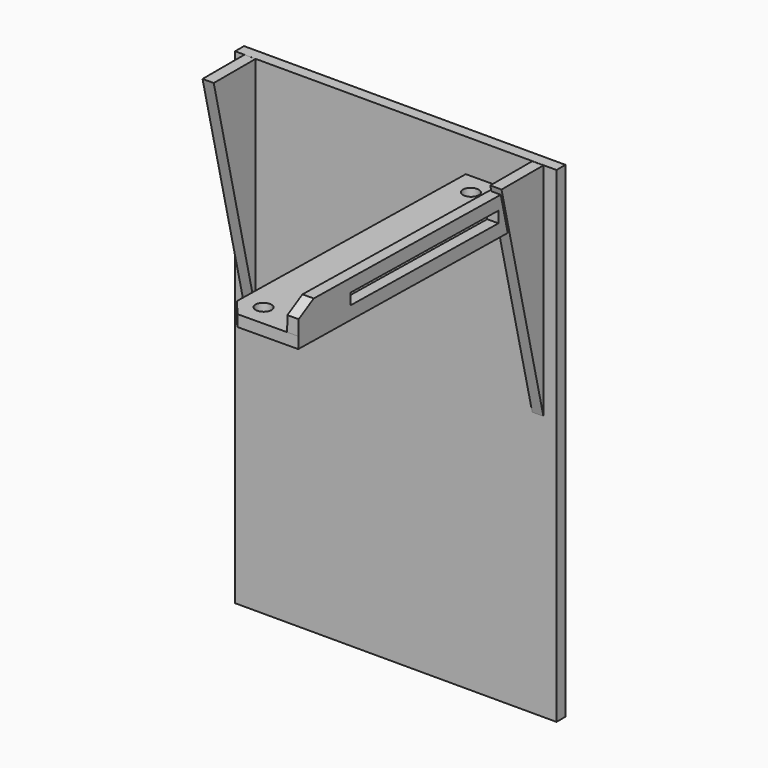
from build123d import *

# Parameters (mm, degrees)
BOX_W                          = 86
BOX_H                          = 3
BOX_DEPTH                      = 130
PAD002_DEPTH                   = 3
PAD003_DEPTH                   = 3
SKETCH001_W                    = 50
SKETCH001_H                    = 3
PAD001_DEPTH                   = 3
SKETCH_R                       = 2.1
PAD_DEPTH                      = 3
FUSION_ROLL_ANGLE              = -1.257497
FUSION_PITCH_ANGLE             = -0.0046
FUSION_PLACEMENT_ANGLE         = -0.419135
PART_MIRRORING_PLACEMENT_ANGLE = 180


with BuildPart() as cube:
    # Box → Box (new body)
    with BuildSketch(Plane(origin=(-2.5, 82, -120), x_dir=(1, 0, 0), z_dir=(0, 0, 1))):
        with Locations((43, 1.5)):
            Rectangle(BOX_W, BOX_H)
    extrude(amount=BOX_DEPTH)


with BuildPart() as pad002:
    # Sketch002 → Pad002 (new body)
    with BuildSketch(Plane.YZ.offset(77)):
        Polygon((85.047287, 9.953191), (67.988335, 9.953191), (85.047287, -62.001831), align=None)
    extrude(amount=PAD002_DEPTH)


with BuildPart() as pad003:
    # Sketch003 → Pad003 (new body)
    with BuildSketch(Plane.YZ):
        Polygon((85.01265, 9.995716), (85.01265, -62.012833), (67.996574, 9.995716), align=None)
    extrude(amount=PAD003_DEPTH)


with BuildPart() as pad001:
    # Sketch001 → Pad001 (new body)
    with BuildSketch(Plane.YZ):
        Polygon((0, 0), (82, 0), (82, 9.916925), (5.012171, 9.916925), (0.002224, 6.989799), align=None)
        with Locations((42.5338, 4.983344)):
            Rectangle(SKETCH001_W, SKETCH001_H, mode=Mode.SUBTRACT)
    extrude(amount=PAD001_DEPTH)


with BuildPart() as fusion:
    # Sketch → Pad (new body)
    with BuildSketch(Plane.XY):
        Polygon((0, 82), (0, 0), (16.196529, 0), (20.084774, 4.734186), (20.084774, 82), align=None)
        with Locations((14, 6)):
            Circle(SKETCH_R, mode=Mode.SUBTRACT)
        with Locations((14, 76)):
            Circle(SKETCH_R, mode=Mode.SUBTRACT)
    extrude(amount=PAD_DEPTH)

    # Fusion: union Pad001
    add(pad001.part)


with BuildPart() as fusion_1:
    # Fusion roll: moved
    add(fusion.part.rotate(Axis((0, 0, 0), (1, 0, 0)), FUSION_ROLL_ANGLE))


with BuildPart() as fusion_2:
    # Fusion pitch: moved
    add(fusion_1.part.rotate(Axis((0, 0, 0), (0, 1, 0)), FUSION_PITCH_ANGLE))


with BuildPart() as fusion_3:
    # Fusion placement: moved
    add(fusion_2.part.rotate(Axis((0, 0, 0), (0, 0, 1)), FUSION_PLACEMENT_ANGLE))


with BuildPart() as part_mirroring:
    # Part__Mirroring: instance of Fusion
    add(fusion_3.part.mirror(Plane(origin=(0, 0, 0), x_dir=(0, 1, 0), z_dir=(0, 0, 1))))


with BuildPart() as part_mirroring_1:
    # Part__Mirroring placement: moved
    add(part_mirroring.part.moved(Location((80, 0, 0))).rotate(Axis((80, 0, 0), (0, 1, 0)), PART_MIRRORING_PLACEMENT_ANGLE))


solid = Compound([cube.part, pad002.part, pad003.part, part_mirroring_1.part])
